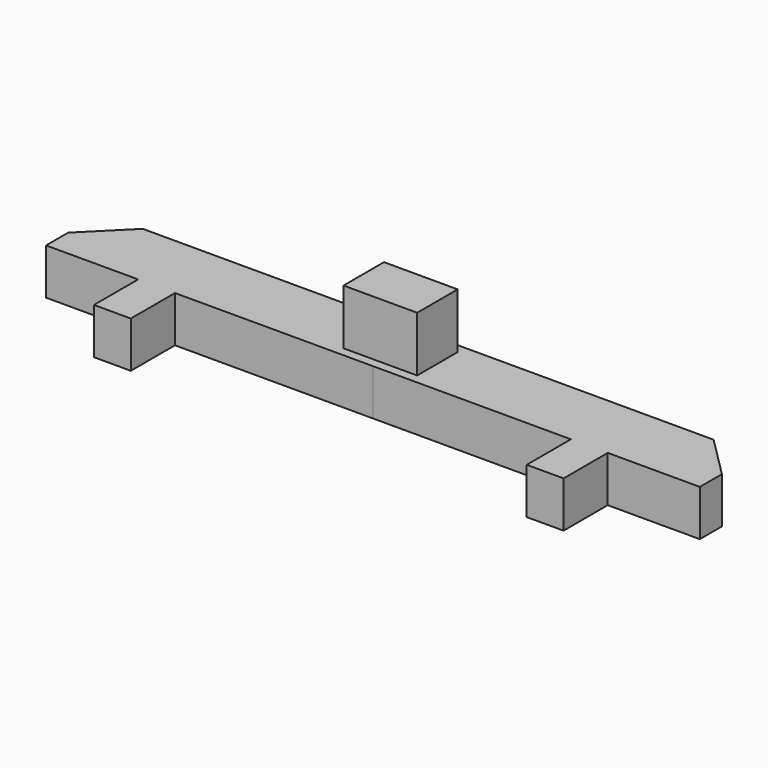
from build123d import *

# Parameters (mm, degrees)
F1_DEPTH = 3.96875
F2_W     = 6.35
F2_H     = 4.365626
F3_DEPTH = 4.7625


with BuildPart() as f1:
    # F0 (on Top) → F1 (new body)
    with BuildSketch(Plane.XY):
        Polygon((24.60625, 2.976563), (0, 2.976563), (-24.60625, 2.976563), (-28.178125, -0.595313), (-28.178125, -2.976562), (-20.240625, -2.976563), (-20.240625, -7.739063), (-17.065625, -7.739062), (-17.065625, -2.976562), (0, -2.976563), (17.065625, -2.976562), (17.065625, -7.739063), (20.240625, -7.739062), (20.240625, -2.976562), (28.178125, -2.976562), (28.178125, -0.595312), align=None)
    extrude(amount=F1_DEPTH)

    # F2 (on face) → F3 (join)
    with BuildSketch(Plane.XY.offset(3.96875)):
        Rectangle(F2_W, F2_H)
    extrude(amount=F3_DEPTH)


solid = f1.part
